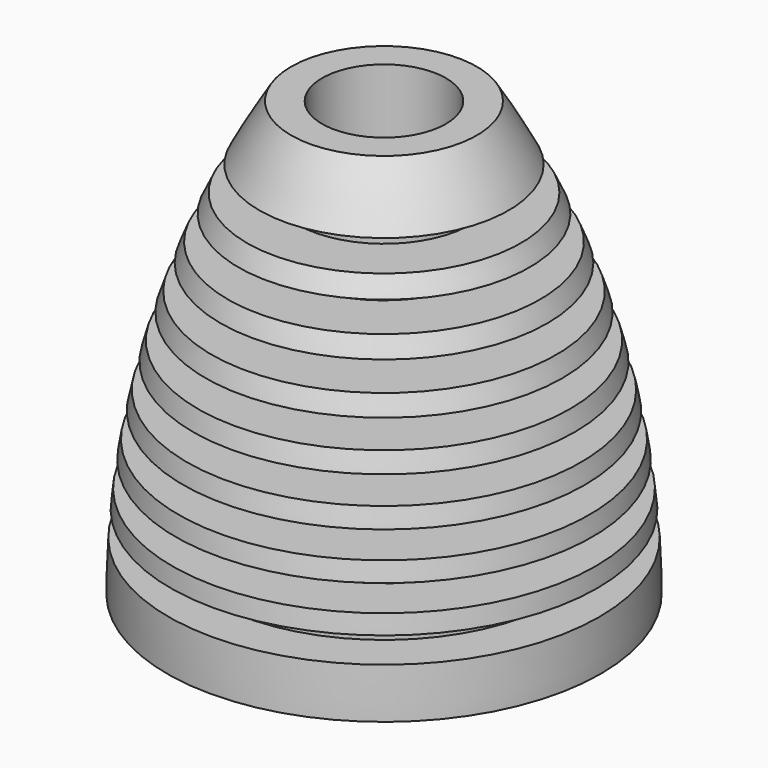
from build123d import *

# Parameters (mm, degrees)
F2_R      = 10
F1_FACE_R = 23.5890763923
F3_DEPTH  = 70.0010001
F4_R      = 1.7
F5_DEPTH  = 50
F6_SIZE   = 11


with BuildPart() as f1:
    # F0 (on Front) → F1 (revolve)
    with BuildSketch(Plane.XZ):
        with BuildLine():
            ThreePointArc((-34.7582700628, -62), (-34.939553728, -65.998174374), (-35, -70))
            Line((-35, -70), (-23.5500708222, -70))
            Line((-23.5500708222, -70), (-23.5500708222, -67))
            Line((-23.5500708222, -67), (-27.2400469397, -67))
            Line((-27.2400469397, -67), (-27.2400469397, -65))
            Line((-27.2400469397, -65), (-23.5890763923, -65))
            Line((-23.5890763923, -65), (-23.5890763923, -62))
            Line((-23.5890763923, -62), (0, -62))
            Line((0, -62), (0, 0))
            Line((0, 0), (-15, 0))
            ThreePointArc((-15, 0), (-17.6496324269, -4.4499263771), (-20.1233395207, -9))
            Line((-20.1233395207, -9), (-14, -9))
            Line((-14, -9), (-14, -13))
            Line((-14, -13), (-22.1129173626, -13))
            ThreePointArc((-22.1129173626, -13), (-22.8142599506, -14.4956861809), (-23.4969007868, -16))
            Line((-23.4969007868, -16), (-16, -16))
            Line((-16, -16), (-16, -20))
            Line((-16, -20), (-25.2039119181, -20))
            ThreePointArc((-25.2039119181, -20), (-25.8030893255, -21.4964108257), (-26.3840183397, -23))
            Line((-26.3840183397, -23), (-18, -23))
            Line((-18, -23), (-18, -27))
            Line((-18, -27), (-27.8285681718, -27))
            ThreePointArc((-27.8285681718, -27), (-28.3322503611, -28.4970510801), (-28.8180509666, -30))
            Line((-28.8180509666, -30), (-20, -30))
            Line((-20, -30), (-20, -34))
            Line((-20, -34), (-30.0156853097, -34))
            ThreePointArc((-30.0156853097, -34), (-30.429028528, -35.4976281993), (-30.824783265, -37))
            Line((-30.824783265, -37), (-22, -37))
            Line((-22, -37), (-22, -41))
            Line((-22, -41), (-31.7874703906, -41))
            ThreePointArc((-31.7874703906, -41), (-32.1144232034, -42.498158286), (-32.4240162557, -44))
            Line((-32.4240162557, -44), (-24, -44))
            Line((-24, -44), (-24, -48))
            Line((-24, -48), (-33.1608204474, -48))
            ThreePointArc((-33.1608204474, -48), (-33.4043345833, -49.4986540123), (-33.6306600304, -51))
            Line((-33.6306600304, -51), (-26, -51))
            Line((-26, -51), (-26, -55))
            Line((-26, -55), (-34.1482054568, -55))
            ThreePointArc((-34.1482054568, -55), (-34.3103804517, -56.4991257629), (-34.4554849182, -58))
            Line((-34.4554849182, -58), (-28, -58))
            Line((-28, -58), (-28, -62))
            Line((-28, -62), (-34.7582700628, -62))
        make_face()
    revolve(axis=Axis((0, 0, -35), (0, 0, 1)))

    # F2 (on Top) + F1_face (on face) → F3 (cut, through all)
    with BuildSketch(Plane.XY):
        Circle(F2_R)
    with BuildSketch(Plane(origin=(0, 0, -62), x_dir=(1, 0, 0), z_dir=(0, 0, -1))):
        Circle(F1_FACE_R)
    extrude(amount=-F3_DEPTH, dir=(0, 0, 1), mode=Mode.SUBTRACT)

    # F4 (on Front) → F5 (cut)
    with BuildSketch(Plane.XZ):
        with Locations((0, -11)):
            Circle(F4_R)
    extrude(amount=F5_DEPTH, mode=Mode.SUBTRACT)

    # F6
    f6_edges = [f1.edges().sort_by_distance(p)[0] for p in [
        (-10, 0, -62),
    ]]
    chamfer(f6_edges, length=F6_SIZE)


solid = f1.part
